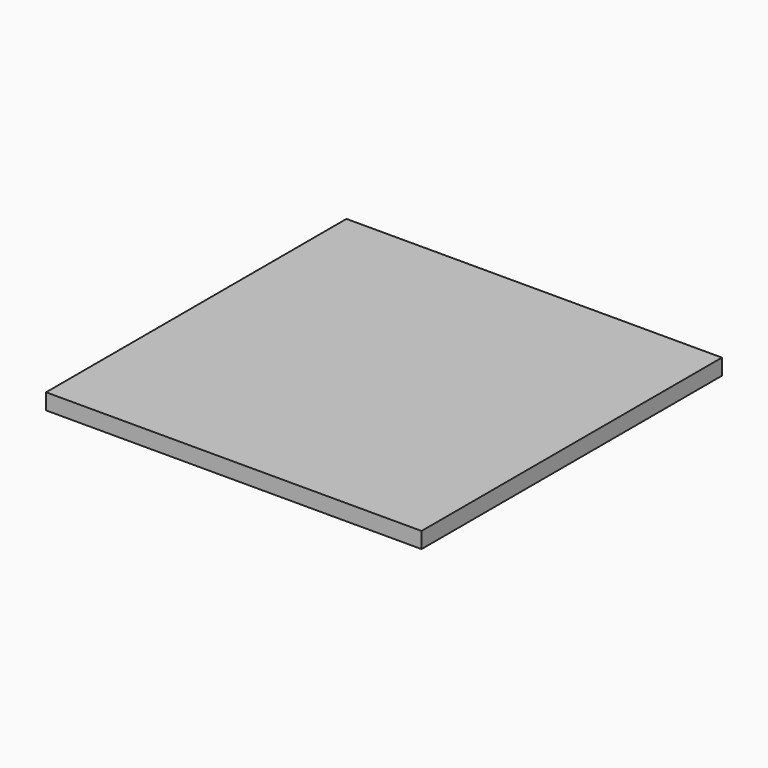
from build123d import *

# Parameters (mm, degrees)
F0_W     = 298.45
F0_H     = 298.45
F0_R     = 98.425
F0_R_2   = 84.455
F1_DEPTH = 12.7
F2_DEPTH = 6.35


with BuildPart() as f1:
    # F0 (on Top) → F1 (new body)
    with BuildSketch(Plane.XY):
        Rectangle(F0_W, F0_H)
        Circle(F0_R, mode=Mode.SUBTRACT)
        Circle(F0_R)
        Circle(F0_R_2, mode=Mode.SUBTRACT)
        Circle(F0_R_2)
    extrude(amount=F1_DEPTH)

    # F0 (on Top) → F2 (cut)
    with BuildSketch(Plane.XY):
        Circle(F0_R)
        Circle(F0_R_2, mode=Mode.SUBTRACT)
    extrude(amount=F2_DEPTH, mode=Mode.SUBTRACT)


solid = f1.part
